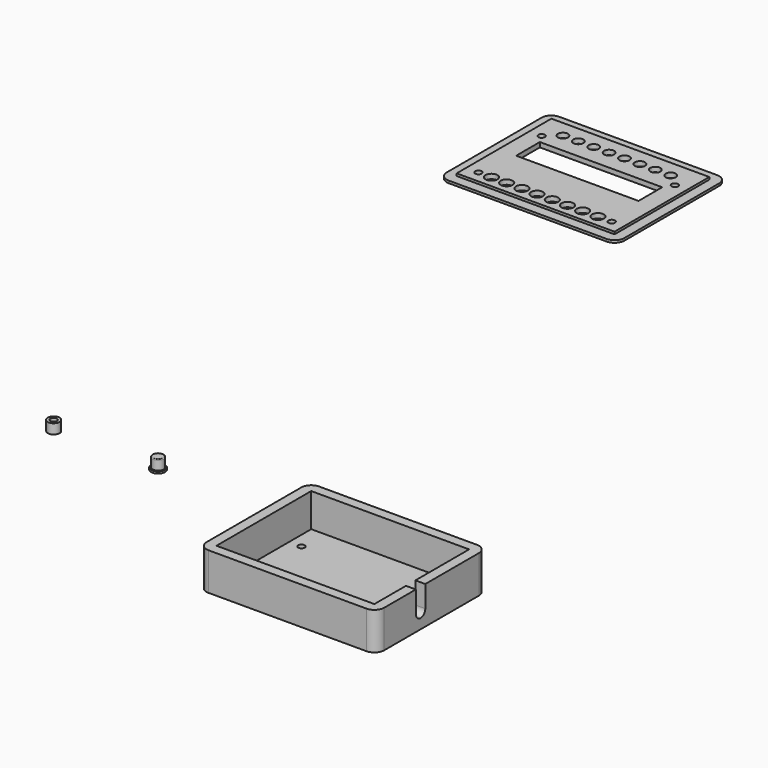
from build123d import *

# Parameters (mm, degrees)
F0_W      = 80
F0_H      = 60
F0_R      = 1.65
F1_DEPTH  = 2
F2_DEPTH  = 19
F4_DEPTH  = 25
F5_W      = 80
F5_H      = 60
F5_R      = 1.65
F5_R_2    = 3
F5_W_2    = 62
F5_H_2    = 15
F5_R_3    = 2.55
F6_DEPTH  = 2.4
F7_DEPTH  = 1.2
F8_R      = 3.5
F9_DEPTH  = 1
F10_R     = 2.8
F11_DEPTH = 5
F12_R     = 0.4
F13_R     = 3
F13_R_2   = 1.65
F14_DEPTH = 5


with BuildPart() as f1:
    # F0 (on Top) → F1 (new body)
    with BuildSketch(Plane.XY):
        with Locations((45, -35)):
            Rectangle(F0_W, F0_H)
        with Locations((11.25, -59)):
            Circle(F0_R, mode=Mode.SUBTRACT)
        with Locations((78.75, -59)):
            Circle(F0_R, mode=Mode.SUBTRACT)
        with Locations((11.25, -19)):
            Circle(F0_R, mode=Mode.SUBTRACT)
        with Locations((78.75, -19)):
            Circle(F0_R, mode=Mode.SUBTRACT)
    extrude(amount=F1_DEPTH)

    # F0 (on Top) → F2 (join)
    with BuildSketch(Plane.XY):
        with BuildLine():
            Line((85, 0), (5, 0))
            ThreePointArc((5, 0), (1.464466, -1.464466), (0, -5))
            Line((0, -5), (0, -65))
            ThreePointArc((0, -65), (1.464466, -68.535534), (5, -70))
            Line((5, -70), (85, -70))
            ThreePointArc((85, -70), (88.535534, -68.535534), (90, -65))
            Line((90, -65), (90, -5))
            ThreePointArc((90, -5), (88.535534, -1.464466), (85, 0))
        make_face()
        with Locations((45, -35)):
            Rectangle(F0_W, F0_H, mode=Mode.SUBTRACT)
    extrude(amount=F2_DEPTH)

    # F3 (on face) → F4 (cut)
    with BuildSketch(Plane.YZ.offset(90)):
        with BuildLine():
            Line((-45, 19), (-45, 8))
            ThreePointArc((-45, 8), (-42, 5), (-39, 8))
            Line((-39, 8), (-39, 19))
            Line((-39, 19), (-45, 19))
        make_face()
    extrude(amount=-F4_DEPTH, mode=Mode.SUBTRACT)


with BuildPart() as f6:
    # F5 (on Top) → F6 (new body)
    with BuildSketch(Plane.XY):
        with Locations((-100.03058, 298.394333)):
            Rectangle(F5_W, F5_H)
        with Locations((-133.78058, 274.394333)):
            Circle(F5_R, mode=Mode.SUBTRACT)
        with Locations((-127.18058, 274.394333)):
            Circle(F5_R_2, mode=Mode.SUBTRACT)
        with Locations((-119.48058, 274.394333)):
            Circle(F5_R_2, mode=Mode.SUBTRACT)
        with Locations((-111.78058, 274.394333)):
            Circle(F5_R_2, mode=Mode.SUBTRACT)
        with Locations((-104.08058, 274.394333)):
            Circle(F5_R_2, mode=Mode.SUBTRACT)
        with Locations((-96.38058, 274.394333)):
            Circle(F5_R_2, mode=Mode.SUBTRACT)
        with Locations((-88.68058, 274.394333)):
            Circle(F5_R_2, mode=Mode.SUBTRACT)
        with Locations((-80.98058, 274.394333)):
            Circle(F5_R_2, mode=Mode.SUBTRACT)
        with Locations((-73.28058, 274.394333)):
            Circle(F5_R_2, mode=Mode.SUBTRACT)
        with Locations((-66.28058, 274.394333)):
            Circle(F5_R, mode=Mode.SUBTRACT)
        with Locations((-133.78058, 314.394333)):
            Circle(F5_R, mode=Mode.SUBTRACT)
        with Locations((-100.08058, 302.394333)):
            Rectangle(F5_W_2, F5_H_2, mode=Mode.SUBTRACT)
        with Locations((-127.38058, 319.894333)):
            Circle(F5_R_3, mode=Mode.SUBTRACT)
        with Locations((-119.58058, 319.894333)):
            Circle(F5_R_3, mode=Mode.SUBTRACT)
        with Locations((-111.78058, 319.894333)):
            Circle(F5_R_3, mode=Mode.SUBTRACT)
        with Locations((-103.98058, 319.894333)):
            Circle(F5_R_3, mode=Mode.SUBTRACT)
        with Locations((-66.28058, 314.394333)):
            Circle(F5_R, mode=Mode.SUBTRACT)
        with Locations((-96.18058, 319.894333)):
            Circle(F5_R_3, mode=Mode.SUBTRACT)
        with Locations((-88.38058, 319.894333)):
            Circle(F5_R_3, mode=Mode.SUBTRACT)
        with Locations((-80.58058, 319.894333)):
            Circle(F5_R_3, mode=Mode.SUBTRACT)
        with Locations((-72.78058, 319.894333)):
            Circle(F5_R_3, mode=Mode.SUBTRACT)
    extrude(amount=F6_DEPTH)

    # F5 (on Top) → F7 (join)
    with BuildSketch(Plane.XY):
        with BuildLine():
            Line((-60.03058, 333.394333), (-140.03058, 333.394333))
            ThreePointArc((-140.03058, 333.394333), (-143.566114, 331.929867), (-145.03058, 328.394333))
            Line((-145.03058, 328.394333), (-145.03058, 268.394333))
            ThreePointArc((-145.03058, 268.394333), (-143.566114, 264.858799), (-140.03058, 263.394333))
            Line((-140.03058, 263.394333), (-60.03058, 263.394333))
            ThreePointArc((-60.03058, 263.394333), (-56.495046, 264.858799), (-55.03058, 268.394333))
            Line((-55.03058, 268.394333), (-55.03058, 328.394333))
            ThreePointArc((-55.03058, 328.394333), (-56.495046, 331.929867), (-60.03058, 333.394333))
        make_face()
        with Locations((-100.03058, 298.394333)):
            Rectangle(F5_W, F5_H, mode=Mode.SUBTRACT)
    extrude(amount=F7_DEPTH)


with BuildPart() as f9:
    # F8 (on Top) → F9 (new body)
    with BuildSketch(Plane.XY):
        with Locations((-76.583433, 0)):
            Circle(F8_R)
    extrude(amount=F9_DEPTH)

    # F10 (on face) → F11 (join)
    with BuildSketch(Plane.XY.offset(1)):
        with Locations((-76.583433, 0)):
            Circle(F10_R)
    extrude(amount=F11_DEPTH)

    # F12
    f12_edges = [f9.edges().sort_by_distance(p)[0] for p in [
        (-79.383433, 0, 6),
    ]]
    fillet(f12_edges, radius=F12_R)


with BuildPart() as f14:
    # F13 (on Top) → F14 (new body)
    with BuildSketch(Plane.XY):
        with Locations((-129.477636, 0)):
            Circle(F13_R)
        with Locations((-129.477636, 0)):
            Circle(F13_R_2, mode=Mode.SUBTRACT)
    extrude(amount=F14_DEPTH)


solid = Compound([f1.part, f6.part, f9.part, f14.part])
